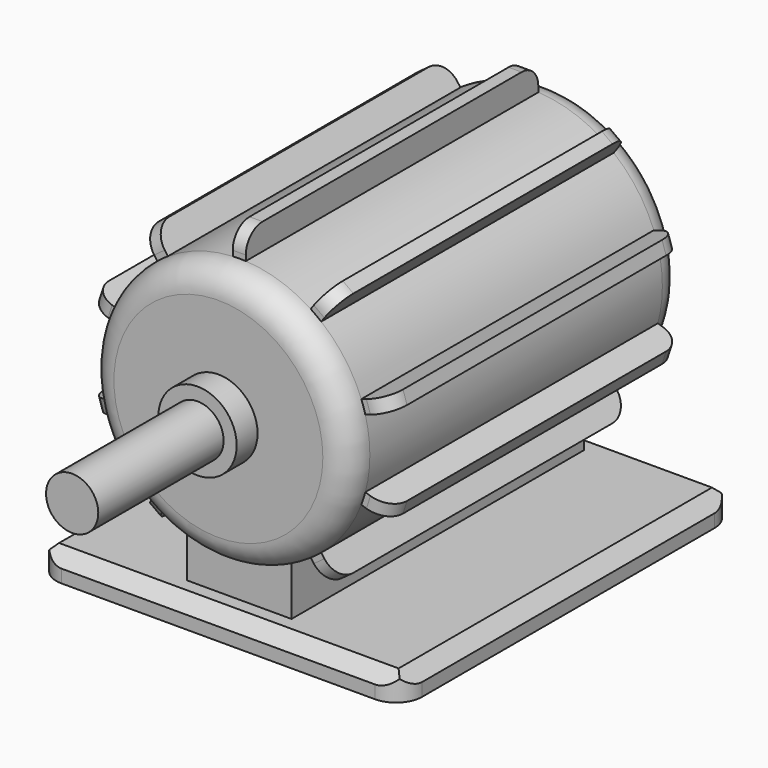
from build123d import *

# Parameters (mm, degrees)
F0_R      = 31.75
F1_DEPTH  = 101.6
F0_W      = 88.9
F0_H      = 6.35
F2_R      = 6.35
F3_SIZE   = 3.175
F6_DEPTH  = 88.9
F7_R      = 5.08
F8_W      = 12.7
F8_H      = 25.4
F9_DEPTH  = 88.9
F10_R     = 6.35
F11_R     = 9.525
F12_DEPTH = 6.35
F13_R     = 6.35
F14_DEPTH = 38.1


with BuildPart() as f1:
    # F0 (on Front) → F1 (new body)
    with BuildSketch(Plane.XZ):
        with Locations((0, 44.45)):
            Circle(F0_R)
    extrude(amount=-F1_DEPTH)

    # F2
    f2_edges = [f1.edges().sort_by_distance(p)[0] for p in [
        (-31.75, 0, 44.45),
        (-31.75, 101.6, 44.45),
    ]]
    fillet(f2_edges, radius=F2_R)

    # F5 (on offset) → F6 (join)
    with BuildSketch(Plane(origin=(0, 95.25, 0), x_dir=(-1, 0, 0), z_dir=(0, 1, 0))):
        Polygon((1.5875, 49.3358226153), (1.5875, 82.55), (-1.5875, 82.55), (-1.5875, 49.3358226153), (0, 47.1508163165), align=None)
        Polygon((21.1103036338, 76.2066565737), (1.5875, 49.3358226153), (1.5875, 46.6350062987), (4.1561289571, 47.4696044392), (23.6789325909, 74.3404383977), align=None)
        Polygon((1.5875, 46.6350062987), (1.5875, 49.3358226153), (0, 47.1508163165), (0.6063710429, 46.316218176), align=None)
        Polygon((0, 47.1508163165), (-1.5875, 49.3358226153), (-1.5875, 46.6350062987), (-0.6063710429, 46.316218176), align=None)
        Polygon((-1.5875, 46.6350062987), (-1.5875, 49.3358226153), (-21.1103036338, 76.2066565737), (-23.6789325909, 74.3404383977), (-4.1561289571, 47.4696044392), align=None)
        Polygon((4.1561289571, 47.4696044392), (1.5875, 46.6350062987), (1.5875, 45.6033862632), (2.5686289571, 45.2845981405), align=None)
        Polygon((-1.5875, 45.6033862632), (-1.5875, 46.6350062987), (-4.1561289571, 47.4696044392), (-2.5686289571, 45.2845981405), align=None)
        Polygon((35.7446887923, 57.7333497053), (4.1561289571, 47.4696044392), (2.5686289571, 45.2845981405), (5.1372579143, 44.45), (36.7258177494, 54.7137452661), align=None)
        Polygon((-2.5686289571, 45.2845981405), (-4.1561289571, 47.4696044392), (-35.7446887923, 57.7333497053), (-36.7258177494, 54.7137452661), (-5.1372579143, 44.45), align=None)
        Polygon((5.1372579143, 44.45), (2.5686289571, 45.2845981405), (1.9622579143, 44.45), (2.5686289571, 43.6154018595), align=None)
        Polygon((-1.9622579143, 44.45), (-2.5686289571, 45.2845981405), (-5.1372579143, 44.45), (-2.5686289571, 43.6154018595), align=None)
        Polygon((36.7258177494, 34.1862547339), (5.1372579143, 44.45), (2.5686289571, 43.6154018595), (4.1561289571, 41.4303955608), (35.7446887923, 31.1666502947), align=None)
        Polygon((-2.5686289571, 43.6154018595), (-5.1372579143, 44.45), (-36.7258177494, 34.1862547339), (-35.7446887923, 31.1666502947), (-4.1561289571, 41.4303955608), align=None)
        Polygon((2.5686289571, 43.6154018595), (1.5875, 43.2966137368), (1.5875, 42.2649937013), (4.1561289571, 41.4303955608), align=None)
        Polygon((-1.5875, 42.2649937013), (-1.5875, 43.2966137368), (-2.5686289571, 43.6154018595), (-4.1561289571, 41.4303955608), align=None)
        Polygon((4.1561289571, 41.4303955608), (1.5875, 42.2649937013), (1.5875, 39.5641773847), (21.1103036338, 12.6933434263), (23.6789325909, 14.5595616023), align=None)
        Polygon((1.5875, 39.5641773847), (1.5875, 42.2649937013), (0.6063710429, 42.583781824), (0, 41.7491836835), align=None)
        Polygon((-0.6063710429, 42.583781824), (-1.5875, 42.2649937013), (-1.5875, 39.5641773847), (0, 41.7491836835), align=None)
        Polygon((-1.5875, 39.5641773847), (-1.5875, 42.2649937013), (-4.1561289571, 41.4303955608), (-23.6789325909, 14.5595616023), (-21.1103036338, 12.6933434263), align=None)
        Polygon((1.5875, 6.35), (1.5875, 39.5641773847), (0, 41.7491836835), (-1.5875, 39.5641773847), (-1.5875, 6.35), align=None)
    extrude(amount=-F6_DEPTH)

    # F7
    f7_edges = [f1.edges().sort_by_distance(p)[0] for p in [
        (0, 95.25, 82.55),
        (-22.394618, 95.25, 75.273547),
        (22.394618, 95.25, 75.273547),
        (36.235253, 95.25, 56.223547),
        (36.235253, 95.25, 32.676453),
        (22.394618, 95.25, 13.626453),
        (0, 95.25, 6.35),
        (-22.394618, 95.25, 13.626453),
        (-36.235253, 95.25, 32.676453),
        (-36.235253, 95.25, 56.223547),
        (-36.235253, 6.35, 56.223547),
        (-36.235253, 6.35, 32.676453),
        (-22.394618, 6.35, 75.273547),
        (0, 6.35, 82.55),
        (22.394618, 6.35, 75.273547),
        (36.235253, 6.35, 56.223547),
        (36.235253, 6.35, 32.676453),
        (22.394618, 6.35, 13.626453),
        (0, 6.35, 6.35),
        (-22.394618, 6.35, 13.626453),
    ]]
    fillet(f7_edges, radius=F7_R)



with BuildPart() as f1b:
    # F0 (on Front) → F1, piece 2 (new body)
    with BuildSketch(Plane.XZ):
        Rectangle(F0_W, F0_H)
    extrude(amount=-F1_DEPTH)

    # F3
    f3_edges = [f1b.edges().sort_by_distance(p)[0] for p in [
        (0, 0, 3.175),
        (44.45, 50.8, 3.175),
        (-44.45, 50.8, 3.175),
        (0, 101.6, 3.175),
    ]]
    chamfer(f3_edges, length=F3_SIZE)


with BuildPart() as f1_1:
    add(f1.part)

    add(f1b.part)  # F9 merges F1b
    # F8 (on offset) → F9 (join)
    with BuildSketch(Plane(origin=(0, 95.25, 0), x_dir=(-1, 0, 0), z_dir=(0, 1, 0))):
        with Locations((6.35, 12.7)):
            Rectangle(F8_W, F8_H)
        with Locations((-6.35, 12.7)):
            Rectangle(F8_W, F8_H)
    extrude(amount=-F9_DEPTH)

    # F10
    f10_edges = [f1_1.edges().sort_by_distance(p)[0] for p in [
        (-44.45, 101.6, -1.5875),
        (44.45, 101.6, -1.5875),
        (44.45, 0, -1.5875),
        (-44.45, 0, -1.5875),
    ]]
    fillet(f10_edges, radius=F10_R)

    # F11 (on face) → F12 (join)
    with BuildSketch(Plane.XZ):
        with Locations((0, 44.45)):
            Circle(F11_R)
    extrude(amount=F12_DEPTH)

    # F13 (on face) → F14 (join)
    with BuildSketch(Plane.XZ.offset(6.35)):
        with Locations((0, 44.45)):
            Circle(F13_R)
    extrude(amount=F14_DEPTH)


solid = f1_1.part
